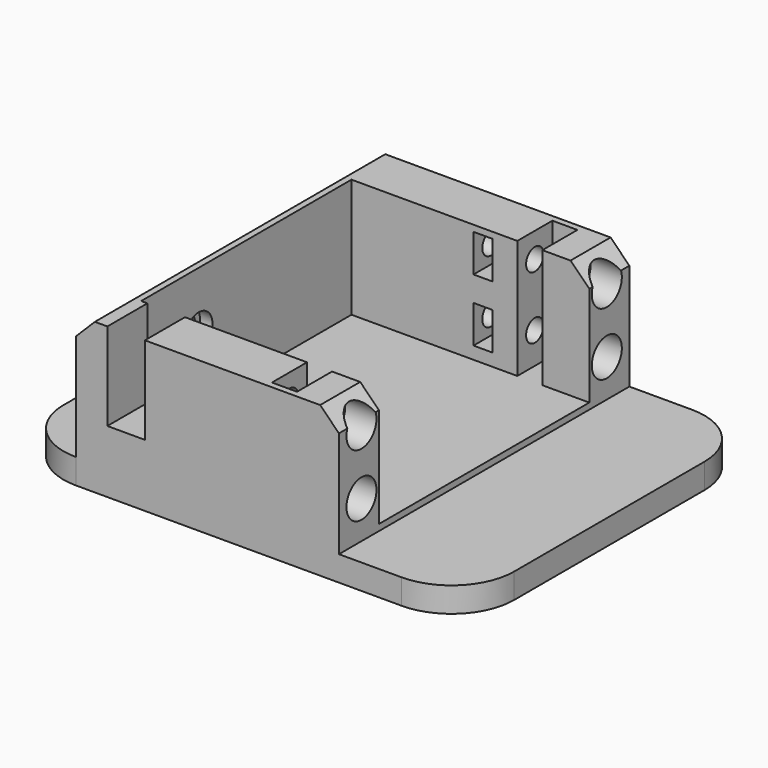
from build123d import *

# Parameters (mm, degrees)
BOX024_W                = 6
BOX024_H                = 36
BOX024_DEPTH            = 23
CYLINDER011_R           = 2.75
CYLINDER011_DEPTH       = 74.5
CYLINDER011_PITCH_ANGLE = 90
CYLINDER008_R           = 1.75
CYLINDER008_DEPTH       = 21.5
CYLINDER008_PITCH_ANGLE = 90
CYLINDER009_R           = 3
CYLINDER009_DEPTH       = 21.5
CYLINDER009_PITCH_ANGLE = 90
BOX007_W                = 3
BOX007_H                = 56
BOX007_DEPTH            = 6
BOX008_W                = 3
BOX008_H                = 56
BOX008_DEPTH            = 6
BOX006_W                = 4
BOX006_H                = 56
BOX006_DEPTH            = 21
CYLINDER003_R           = 1.75
CYLINDER003_DEPTH       = 74.5
CYLINDER003_PITCH_ANGLE = 90
BOX003_W                = 28
BOX003_H                = 88
BOX003_DEPTH            = 38
BOX002_W                = 28
BOX002_H                = 88
BOX002_DEPTH            = 38
BOX001_W                = 47
BOX001_H                = 42
BOX001_DEPTH            = 25
BOX_W                   = 72
BOX_H                   = 58
BOX_DEPTH               = 24
FILLET_R                = 10
CHAMFER_SIZE            = 3


with BuildPart() as cube024:
    # Box024 → Box024 (new body)
    with BuildSketch(Plane(origin=(0, 19, 7), x_dir=(1, 0, 0), z_dir=(0, 0, 1))):
        with Locations((3, 18)):
            Rectangle(BOX024_W, BOX024_H)
    extrude(amount=BOX024_DEPTH)


with BuildPart() as joint_d013:
    # Cylinder011 → Cylinder011 (new body)
    with BuildSketch(Plane.XY):
        Circle(CYLINDER011_R)
    extrude(amount=CYLINDER011_DEPTH)


with BuildPart() as joint_d013_1:
    # Cylinder011 pitch: moved
    add(joint_d013.part.rotate(Axis((0, 0, 0), (0, 1, 0)), CYLINDER011_PITCH_ANGLE))


with BuildPart() as joint_d013_2:
    # Cylinder011 placement: moved
    add(joint_d013_1.part.moved(Location((-3, 9.5, 12))))


with BuildPart() as joint_d010:
    # Cylinder008 → Cylinder008 (new body)
    with BuildSketch(Plane.XY):
        Circle(CYLINDER008_R)
    extrude(amount=CYLINDER008_DEPTH)


with BuildPart() as joint_d010_1:
    # Cylinder008 pitch: moved
    add(joint_d010.part.rotate(Axis((0, 0, 0), (0, 1, 0)), CYLINDER008_PITCH_ANGLE))


with BuildPart() as joint_d010_2:
    # Cylinder008 placement: moved
    add(joint_d010_1.part.moved(Location((16, -24.5, 7))))


with BuildPart() as joint_d011:
    # Cylinder009 → Cylinder009 (new body)
    with BuildSketch(Plane.XY):
        Circle(CYLINDER009_R)
    extrude(amount=CYLINDER009_DEPTH)


with BuildPart() as joint_d011_1:
    # Cylinder009 pitch: moved
    add(joint_d011.part.rotate(Axis((0, 0, 0), (0, 1, 0)), CYLINDER009_PITCH_ANGLE))


with BuildPart() as joint_d011_2:
    # Cylinder009 placement: moved
    add(joint_d011_1.part.moved(Location((32, -24.5, 7))))


with BuildPart() as fusion001:
    # Fusion001 base: copy of Joint-D011
    add(joint_d011_2.part)

    # Fusion001: union Joint-D010
    add(joint_d010_2.part)


with BuildPart() as fusion002:
    # Fusion002 base: copy of Joint-D011
    add(joint_d011_2.part)

    # Fusion002: union Joint-D010
    add(joint_d010_2.part)


with BuildPart() as fusion002_1:
    # Fusion002 placement: moved
    add(fusion002.part.moved(Location((0, 0, 10))))


with BuildPart() as fusion003:
    # Fusion003 base: copy of Joint-D011
    add(joint_d011_2.part)

    # Fusion003: union Joint-D010
    add(joint_d010_2.part)


with BuildPart() as fusion003_1:
    # Fusion003 placement: moved
    add(fusion003.part.moved(Location((0, 49, 0))))


with BuildPart() as fusion004:
    # Fusion004 base: copy of Joint-D011
    add(joint_d011_2.part)

    # Fusion004: union Joint-D010
    add(joint_d010_2.part)


with BuildPart() as fusion004_1:
    # Fusion004 placement: moved
    add(fusion004.part.moved(Location((0, 49, 10))))


with BuildPart() as cube007:
    # Box007 → Box007 (new body)
    with BuildSketch(Plane(origin=(18.5, -28, 4), x_dir=(1, 0, 0), z_dir=(0, 0, 1))):
        with Locations((1.5, 28)):
            Rectangle(BOX007_W, BOX007_H)
    extrude(amount=BOX007_DEPTH)


with BuildPart() as cube008:
    # Box008 → Box008 (new body)
    with BuildSketch(Plane(origin=(18.5, -28, 14), x_dir=(1, 0, 0), z_dir=(0, 0, 1))):
        with Locations((1.5, 28)):
            Rectangle(BOX008_W, BOX008_H)
    extrude(amount=BOX008_DEPTH)


with BuildPart() as cube006:
    # Box006 → Box006 (new body)
    with BuildSketch(Plane(origin=(25.5, -28, 2), x_dir=(1, 0, 0), z_dir=(0, 0, 1))):
        with Locations((2, 28)):
            Rectangle(BOX006_W, BOX006_H)
    extrude(amount=BOX006_DEPTH)


with BuildPart() as joint_d005:
    # Cylinder003 → Cylinder003 (new body)
    with BuildSketch(Plane.XY):
        Circle(CYLINDER003_R)
    extrude(amount=CYLINDER003_DEPTH)


with BuildPart() as joint_d005_1:
    # Cylinder003 pitch: moved
    add(joint_d005.part.rotate(Axis((0, 0, 0), (0, 1, 0)), CYLINDER003_PITCH_ANGLE))


with BuildPart() as joint_d005_2:
    # Cylinder003 placement: moved
    add(joint_d005_1.part.moved(Location((-22, 9.5, 12))))


with BuildPart() as cube003:
    # Box003 → Box003 (new body)
    with BuildSketch(Plane(origin=(-33, -45, 1), x_dir=(1, 0, 0), z_dir=(0, 0, 1))):
        with Locations((14, 44)):
            Rectangle(BOX003_W, BOX003_H)
    extrude(amount=BOX003_DEPTH)


with BuildPart() as cube002:
    # Box002 → Box002 (new body)
    with BuildSketch(Plane(origin=(37, -45, 1), x_dir=(1, 0, 0), z_dir=(0, 0, 1))):
        with Locations((14, 44)):
            Rectangle(BOX002_W, BOX002_H)
    extrude(amount=BOX002_DEPTH)


with BuildPart() as cube001:
    # Box001 → Box001 (new body)
    with BuildSketch(Plane(origin=(-1, -21, 2), x_dir=(1, 0, 0), z_dir=(0, 0, 1))):
        with Locations((23.5, 21)):
            Rectangle(BOX001_W, BOX001_H)
    extrude(amount=BOX001_DEPTH)


with BuildPart() as pie_d:
    # Box → Box (new body)
    with BuildSketch(Plane(origin=(-15, -29, -3), x_dir=(1, 0, 0), z_dir=(0, 0, 1))):
        with Locations((36, 29)):
            Rectangle(BOX_W, BOX_H)
    extrude(amount=BOX_DEPTH)

    # Cut: cut Cube001
    add(cube001.part, mode=Mode.SUBTRACT)

    # Cut001: cut Cube002
    add(cube002.part, mode=Mode.SUBTRACT)

    # Cut002: cut Cube003
    add(cube003.part, mode=Mode.SUBTRACT)

    # Fillet
    fillet_edges = [pie_d.edges().sort_by_distance(p)[0] for p in [
        (-15, -29, -1),
        (-15, 29, -1),
        (57, -29, -1),
        (57, 29, -1),
    ]]
    fillet(fillet_edges, radius=FILLET_R)

    # Chamfer
    chamfer_edges = [pie_d.edges().sort_by_distance(p)[0] for p in [
        (-5, 0, 21),
        (37, 25, 21),
        (37, -25, 21),
    ]]
    chamfer(chamfer_edges, length=CHAMFER_SIZE)

    # Cut008: cut Joint-D005
    add(joint_d005_2.part, mode=Mode.SUBTRACT)

    # Cut010: cut Cube006
    add(cube006.part, mode=Mode.SUBTRACT)

    # Cut011: cut Cube008
    add(cube008.part, mode=Mode.SUBTRACT)

    # Cut012: cut Cube007
    add(cube007.part, mode=Mode.SUBTRACT)

    # Cut013: cut Fusion004
    add(fusion004_1.part, mode=Mode.SUBTRACT)

    # Cut014: cut Fusion003
    add(fusion003_1.part, mode=Mode.SUBTRACT)

    # Cut015: cut Fusion002
    add(fusion002_1.part, mode=Mode.SUBTRACT)

    # Cut016: cut Fusion001
    add(fusion001.part, mode=Mode.SUBTRACT)

    # Cut017: cut Joint-D013
    add(joint_d013_2.part, mode=Mode.SUBTRACT)

    # Cut039: cut Cube024
    add(cube024.part, mode=Mode.SUBTRACT)


with BuildPart() as pie_d_1:
    # Cut039 placement: moved
    add(pie_d.part.moved(Location((0, 0, 1))))


with BuildPart() as pie_i:
    # Part__Mirroring006: instance of pie-D
    add(pie_d_1.part.mirror(Plane(origin=(0, 0, 0), x_dir=(1, 0, 0), z_dir=(0, 1, 0))))


with BuildPart() as pie_i_1:
    # Part__Mirroring006 placement: moved
    add(pie_i.part.moved(Location((0, 72, 0))))


solid = pie_i_1.part
